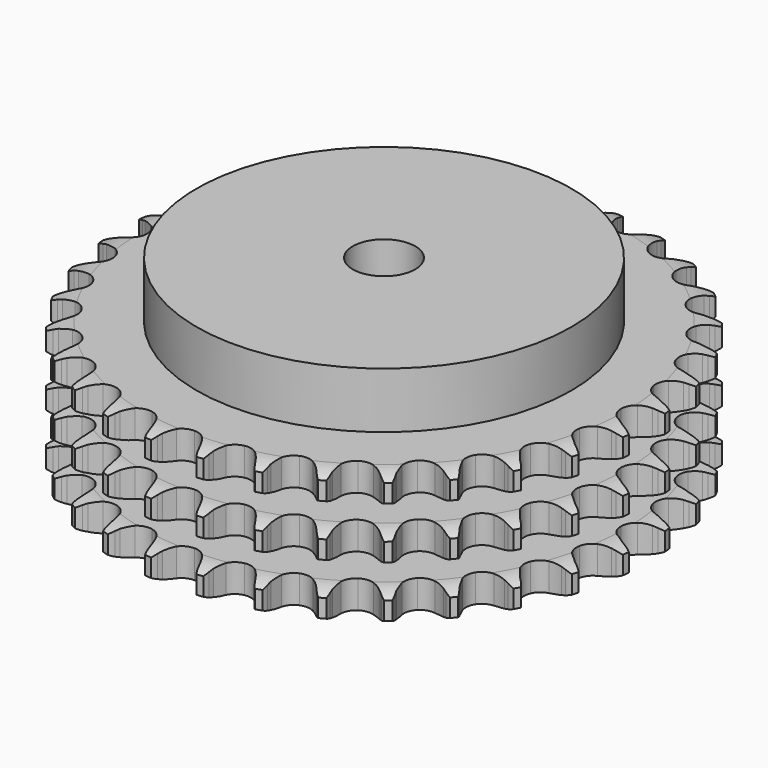
from build123d import *

# Parameters (mm, degrees)
PAD_DEPTH         = 42.1
SKETCH001_R       = 60
PAD001_DEPTH      = 60
SKETCH002_R       = 10
POCKET_DEPTH      = 0.001
POCKET_DEPTH_BACK = 60.001


with BuildPart() as part:
    # Sprocket → Pad (new body)
    with BuildSketch(Plane.XY):
        with BuildLine():
            ThreePointArc((-8.426127, 85.551899), (-7.24963, 84.138481), (-6.414523, 82.500039))
            Line((-6.414523, 82.500039), (-5.91891, 81.183227))
            ThreePointArc((-5.91891, 81.183227), (-5.133513, 79.474671), (-4.114525, 77.894268))
            ThreePointArc((-4.114525, 77.894268), (-2.300038, 76.380146), (0, 75.837234))
            ThreePointArc((0, 75.837234), (2.300038, 76.380146), (4.114525, 77.894268))
            ThreePointArc((4.114525, 77.894268), (5.133513, 79.474671), (5.91891, 81.183227))
            Line((5.91891, 81.183227), (6.414523, 82.500039))
            ThreePointArc((6.414523, 82.500039), (7.24963, 84.138481), (8.426127, 85.551899))
            ThreePointArc((8.426127, 85.551899), (9.304273, 83.936116), (9.80369, 82.166235))
            Line((9.80369, 82.166235), (10.032882, 80.778036))
            ThreePointArc((10.032882, 80.778036), (10.469865, 78.949086), (11.160952, 77.200255))
            ThreePointArc((11.160952, 77.200255), (12.645184, 75.361238), (14.79511, 74.380043))
            ThreePointArc((14.79511, 74.380043), (17.156871, 74.463807), (19.231884, 75.594847))
            Line((19.231884, 75.594847), (21.643242, 78.468592))
            ThreePointArc((21.643242, 78.468592), (21.99889, 79.075855), (22.386229, 79.663412))
            ThreePointArc((22.386229, 79.663412), (23.524933, 81.107451), (24.954568, 82.264187))
            ThreePointArc((24.954568, 82.264187), (25.500618, 80.508133), (25.645152, 78.674829))
            Line((25.645152, 78.674829), (25.599116, 77.26859))
            ThreePointArc((25.599116, 77.26859), (25.670892, 75.389532), (26.00752, 73.53948))
            ThreePointArc((26.00752, 73.53948), (27.104458, 71.44624), (29.021653, 70.064469))
            ThreePointArc((29.021653, 70.064469), (31.354375, 69.685867), (33.610171, 70.390359))
            Line((33.610171, 70.390359), (36.535836, 72.738453))
            ThreePointArc((36.535836, 72.738453), (37.003122, 73.264664), (37.497644, 73.765366))
            ThreePointArc((37.497644, 73.765366), (38.896187, 74.959507), (40.52402, 75.815109))
            ThreePointArc((40.52402, 75.815109), (40.716989, 73.986268), (40.501085, 72.159993))
            Line((40.501085, 72.159993), (40.181591, 70.789756))
            ThreePointArc((40.181591, 70.789756), (39.885401, 68.932801), (39.854634, 67.052624))
            ThreePointArc((39.854634, 67.052624), (40.522123, 64.785603), (42.13291, 63.056356))
            ThreePointArc((42.13291, 63.056356), (44.346947, 62.229937), (46.696839, 62.480809))
            Line((46.696839, 62.480809), (50.024378, 64.213016))
            ThreePointArc((50.024378, 64.213016), (50.585344, 64.637953), (51.168047, 65.032557))
            ThreePointArc((51.168047, 65.032557), (52.772682, 65.930912), (54.536157, 66.452499))
            ThreePointArc((54.536157, 66.452499), (54.368628, 64.621153), (53.800584, 62.872089))
            Line((53.800584, 62.872089), (53.219909, 61.590511))
            ThreePointArc((53.219909, 61.590511), (52.567137, 59.827021), (52.170156, 57.988974))
            ThreePointArc((52.170156, 57.988974), (52.382546, 55.635292), (53.625023, 53.625023))
            ThreePointArc((53.625023, 53.625023), (55.635292, 52.382546), (57.988974, 52.170156))
            Line((57.988974, 52.170156), (61.590511, 53.219909))
            ThreePointArc((61.590511, 53.219909), (62.2236, 53.527242), (62.872089, 53.800584))
            ThreePointArc((62.872089, 53.800584), (64.621153, 54.368628), (66.452499, 54.536157))
            ThreePointArc((66.452499, 54.536157), (65.930912, 52.772682), (65.032557, 51.168047))
            Line((65.032557, 51.168047), (64.213016, 50.024378))
            ThreePointArc((64.213016, 50.024378), (63.228747, 48.422122), (62.480809, 46.696839))
            ThreePointArc((62.480809, 46.696839), (62.229937, 44.346947), (63.056356, 42.13291))
            ThreePointArc((63.056356, 42.13291), (64.785603, 40.522123), (67.052624, 39.854634))
            Line((67.052624, 39.854634), (70.789756, 40.181591))
            ThreePointArc((70.789756, 40.181591), (71.470638, 40.359509), (72.159993, 40.501085))
            ThreePointArc((72.159993, 40.501085), (73.986268, 40.716989), (75.815109, 40.52402))
            ThreePointArc((75.815109, 40.52402), (74.959507, 38.896187), (73.765366, 37.497644))
            Line((73.765366, 37.497644), (72.738453, 36.535836))
            ThreePointArc((72.738453, 36.535836), (71.460511, 35.156388), (70.390359, 33.610171))
            ThreePointArc((70.390359, 33.610171), (69.685867, 31.354375), (70.064469, 29.021653))
            ThreePointArc((70.064469, 29.021653), (71.44624, 27.104458), (73.53948, 26.00752))
            Line((73.53948, 26.00752), (77.26859, 25.599116))
            ThreePointArc((77.26859, 25.599116), (77.971099, 25.640783), (78.674829, 25.645152))
            ThreePointArc((78.674829, 25.645152), (80.508133, 25.500618), (82.264187, 24.954568))
            ThreePointArc((82.264187, 24.954568), (81.107451, 23.524933), (79.663412, 22.386229))
            Line((79.663412, 22.386229), (78.468592, 21.643242))
            ThreePointArc((78.468592, 21.643242), (76.946089, 20.539614), (75.594847, 19.231884))
            ThreePointArc((75.594847, 19.231884), (74.463807, 17.156871), (74.380043, 14.79511))
            ThreePointArc((74.380043, 14.79511), (75.361238, 12.645184), (77.200255, 11.160952))
            Line((77.200255, 11.160952), (80.778036, 10.032882))
            ThreePointArc((80.778036, 10.032882), (81.475175, 9.936695), (82.166235, 9.80369))
            ThreePointArc((82.166235, 9.80369), (83.936116, 9.304273), (85.551899, 8.426127))
            ThreePointArc((85.551899, 8.426127), (84.138481, 7.24963), (82.500039, 6.414523))
            Line((82.500039, 6.414523), (81.183227, 5.91891))
            ThreePointArc((81.183227, 5.91891), (79.474671, 5.133513), (77.894268, 4.114525))
            ThreePointArc((77.894268, 4.114525), (76.380146, 2.300038), (75.837234, 0))
            ThreePointArc((75.837234, 0), (76.380146, -2.300038), (77.894268, -4.114525))
            Line((77.894268, -4.114525), (81.183227, -5.91891))
            ThreePointArc((81.183227, -5.91891), (81.848205, -6.149254), (82.500039, -6.414523))
            ThreePointArc((82.500039, -6.414523), (84.138481, -7.24963), (85.551899, -8.426127))
            ThreePointArc((85.551899, -8.426127), (83.936116, -9.304273), (82.166235, -9.80369))
            Line((82.166235, -9.80369), (80.778036, -10.032882))
            ThreePointArc((80.778036, -10.032882), (78.949086, -10.469865), (77.200255, -11.160952))
            ThreePointArc((77.200255, -11.160952), (75.361238, -12.645184), (74.380043, -14.79511))
            ThreePointArc((74.380043, -14.79511), (74.463807, -17.156871), (75.594847, -19.231884))
            Line((75.594847, -19.231884), (78.468592, -21.643242))
            ThreePointArc((78.468592, -21.643242), (79.075855, -21.99889), (79.663412, -22.386229))
            ThreePointArc((79.663412, -22.386229), (81.107451, -23.524933), (82.264187, -24.954568))
            ThreePointArc((82.264187, -24.954568), (80.508133, -25.500618), (78.674829, -25.645152))
            Line((78.674829, -25.645152), (77.26859, -25.599116))
            ThreePointArc((77.26859, -25.599116), (75.389532, -25.670892), (73.53948, -26.00752))
            ThreePointArc((73.53948, -26.00752), (71.44624, -27.104458), (70.064469, -29.021653))
            ThreePointArc((70.064469, -29.021653), (69.685867, -31.354375), (70.390359, -33.610171))
            Line((70.390359, -33.610171), (72.738453, -36.535836))
            ThreePointArc((72.738453, -36.535836), (73.264664, -37.003122), (73.765366, -37.497644))
            ThreePointArc((73.765366, -37.497644), (74.959507, -38.896187), (75.815109, -40.52402))
            ThreePointArc((75.815109, -40.52402), (73.986268, -40.716989), (72.159993, -40.501085))
            Line((72.159993, -40.501085), (70.789756, -40.181591))
            ThreePointArc((70.789756, -40.181591), (68.932801, -39.885401), (67.052624, -39.854634))
            ThreePointArc((67.052624, -39.854634), (64.785603, -40.522123), (63.056356, -42.13291))
            ThreePointArc((63.056356, -42.13291), (62.229937, -44.346947), (62.480809, -46.696839))
            Line((62.480809, -46.696839), (64.213016, -50.024378))
            ThreePointArc((64.213016, -50.024378), (64.637953, -50.585344), (65.032557, -51.168047))
            ThreePointArc((65.032557, -51.168047), (65.930912, -52.772682), (66.452499, -54.536157))
            ThreePointArc((66.452499, -54.536157), (64.621153, -54.368628), (62.872089, -53.800584))
            Line((62.872089, -53.800584), (61.590511, -53.219909))
            ThreePointArc((61.590511, -53.219909), (59.827021, -52.567137), (57.988974, -52.170156))
            ThreePointArc((57.988974, -52.170156), (55.635292, -52.382546), (53.625023, -53.625023))
            ThreePointArc((53.625023, -53.625023), (52.382546, -55.635292), (52.170156, -57.988974))
            Line((52.170156, -57.988974), (53.219909, -61.590511))
            ThreePointArc((53.219909, -61.590511), (53.527242, -62.2236), (53.800584, -62.872089))
            ThreePointArc((53.800584, -62.872089), (54.368628, -64.621153), (54.536157, -66.452499))
            ThreePointArc((54.536157, -66.452499), (52.772682, -65.930912), (51.168047, -65.032557))
            Line((51.168047, -65.032557), (50.024378, -64.213016))
            ThreePointArc((50.024378, -64.213016), (48.422122, -63.228747), (46.696839, -62.480809))
            ThreePointArc((46.696839, -62.480809), (44.346947, -62.229937), (42.13291, -63.056356))
            ThreePointArc((42.13291, -63.056356), (40.522123, -64.785603), (39.854634, -67.052624))
            Line((39.854634, -67.052624), (40.181591, -70.789756))
            ThreePointArc((40.181591, -70.789756), (40.359509, -71.470638), (40.501085, -72.159993))
            ThreePointArc((40.501085, -72.159993), (40.716989, -73.986268), (40.52402, -75.815109))
            ThreePointArc((40.52402, -75.815109), (38.896187, -74.959507), (37.497644, -73.765366))
            Line((37.497644, -73.765366), (36.535836, -72.738453))
            ThreePointArc((36.535836, -72.738453), (35.156388, -71.460511), (33.610171, -70.390359))
            ThreePointArc((33.610171, -70.390359), (31.354375, -69.685867), (29.021653, -70.064469))
            ThreePointArc((29.021653, -70.064469), (27.104458, -71.44624), (26.00752, -73.53948))
            Line((26.00752, -73.53948), (25.599116, -77.26859))
            ThreePointArc((25.599116, -77.26859), (25.640783, -77.971099), (25.645152, -78.674829))
            ThreePointArc((25.645152, -78.674829), (25.500618, -80.508133), (24.954568, -82.264187))
            ThreePointArc((24.954568, -82.264187), (23.524933, -81.107451), (22.386229, -79.663412))
            Line((22.386229, -79.663412), (21.643242, -78.468592))
            ThreePointArc((21.643242, -78.468592), (20.539614, -76.946089), (19.231884, -75.594847))
            ThreePointArc((19.231884, -75.594847), (17.156871, -74.463807), (14.79511, -74.380043))
            ThreePointArc((14.79511, -74.380043), (12.645184, -75.361238), (11.160952, -77.200255))
            Line((11.160952, -77.200255), (10.032882, -80.778036))
            ThreePointArc((10.032882, -80.778036), (9.936695, -81.475175), (9.80369, -82.166235))
            ThreePointArc((9.80369, -82.166235), (9.304273, -83.936116), (8.426127, -85.551899))
            ThreePointArc((8.426127, -85.551899), (7.24963, -84.138481), (6.414523, -82.500039))
            Line((6.414523, -82.500039), (5.91891, -81.183227))
            ThreePointArc((5.91891, -81.183227), (5.133513, -79.474671), (4.114525, -77.894268))
            ThreePointArc((4.114525, -77.894268), (2.300038, -76.380146), (0, -75.837234))
            ThreePointArc((0, -75.837234), (-2.300038, -76.380146), (-4.114525, -77.894268))
            Line((-4.114525, -77.894268), (-5.91891, -81.183227))
            ThreePointArc((-5.91891, -81.183227), (-6.149254, -81.848205), (-6.414523, -82.500039))
            ThreePointArc((-6.414523, -82.500039), (-7.24963, -84.138481), (-8.426127, -85.551899))
            ThreePointArc((-8.426127, -85.551899), (-9.304273, -83.936116), (-9.80369, -82.166235))
            Line((-9.80369, -82.166235), (-10.032882, -80.778036))
            ThreePointArc((-10.032882, -80.778036), (-10.469865, -78.949086), (-11.160952, -77.200255))
            ThreePointArc((-11.160952, -77.200255), (-12.645184, -75.361238), (-14.79511, -74.380043))
            ThreePointArc((-14.79511, -74.380043), (-17.156871, -74.463807), (-19.231884, -75.594847))
            Line((-19.231884, -75.594847), (-21.643242, -78.468592))
            ThreePointArc((-21.643242, -78.468592), (-21.99889, -79.075855), (-22.386229, -79.663412))
            ThreePointArc((-22.386229, -79.663412), (-23.524933, -81.107451), (-24.954568, -82.264187))
            ThreePointArc((-24.954568, -82.264187), (-25.500618, -80.508133), (-25.645152, -78.674829))
            Line((-25.645152, -78.674829), (-25.599116, -77.26859))
            ThreePointArc((-25.599116, -77.26859), (-25.670892, -75.389532), (-26.00752, -73.53948))
            ThreePointArc((-26.00752, -73.53948), (-27.104458, -71.44624), (-29.021653, -70.064469))
            ThreePointArc((-29.021653, -70.064469), (-31.354375, -69.685867), (-33.610171, -70.390359))
            Line((-33.610171, -70.390359), (-36.535836, -72.738453))
            ThreePointArc((-36.535836, -72.738453), (-37.003122, -73.264664), (-37.497644, -73.765366))
            ThreePointArc((-37.497644, -73.765366), (-38.896187, -74.959507), (-40.52402, -75.815109))
            ThreePointArc((-40.52402, -75.815109), (-40.716989, -73.986268), (-40.501085, -72.159993))
            Line((-40.501085, -72.159993), (-40.181591, -70.789756))
            ThreePointArc((-40.181591, -70.789756), (-39.885401, -68.932801), (-39.854634, -67.052624))
            ThreePointArc((-39.854634, -67.052624), (-40.522123, -64.785603), (-42.13291, -63.056356))
            ThreePointArc((-42.13291, -63.056356), (-44.346947, -62.229937), (-46.696839, -62.480809))
            Line((-46.696839, -62.480809), (-50.024378, -64.213016))
            ThreePointArc((-50.024378, -64.213016), (-50.585344, -64.637953), (-51.168047, -65.032557))
            ThreePointArc((-51.168047, -65.032557), (-52.772682, -65.930912), (-54.536157, -66.452499))
            ThreePointArc((-54.536157, -66.452499), (-54.368628, -64.621153), (-53.800584, -62.872089))
            Line((-53.800584, -62.872089), (-53.219909, -61.590511))
            ThreePointArc((-53.219909, -61.590511), (-52.567137, -59.827021), (-52.170156, -57.988974))
            ThreePointArc((-52.170156, -57.988974), (-52.382546, -55.635292), (-53.625023, -53.625023))
            ThreePointArc((-53.625023, -53.625023), (-55.635292, -52.382546), (-57.988974, -52.170156))
            Line((-57.988974, -52.170156), (-61.590511, -53.219909))
            ThreePointArc((-61.590511, -53.219909), (-62.2236, -53.527242), (-62.872089, -53.800584))
            ThreePointArc((-62.872089, -53.800584), (-64.621153, -54.368628), (-66.452499, -54.536157))
            ThreePointArc((-66.452499, -54.536157), (-65.930912, -52.772682), (-65.032557, -51.168047))
            Line((-65.032557, -51.168047), (-64.213016, -50.024378))
            ThreePointArc((-64.213016, -50.024378), (-63.228747, -48.422122), (-62.480809, -46.696839))
            ThreePointArc((-62.480809, -46.696839), (-62.229937, -44.346947), (-63.056356, -42.13291))
            ThreePointArc((-63.056356, -42.13291), (-64.785603, -40.522123), (-67.052624, -39.854634))
            Line((-67.052624, -39.854634), (-70.789756, -40.181591))
            ThreePointArc((-70.789756, -40.181591), (-71.470638, -40.359509), (-72.159993, -40.501085))
            ThreePointArc((-72.159993, -40.501085), (-73.986268, -40.716989), (-75.815109, -40.52402))
            ThreePointArc((-75.815109, -40.52402), (-74.959507, -38.896187), (-73.765366, -37.497644))
            Line((-73.765366, -37.497644), (-72.738453, -36.535836))
            ThreePointArc((-72.738453, -36.535836), (-71.460511, -35.156388), (-70.390359, -33.610171))
            ThreePointArc((-70.390359, -33.610171), (-69.685867, -31.354375), (-70.064469, -29.021653))
            ThreePointArc((-70.064469, -29.021653), (-71.44624, -27.104458), (-73.53948, -26.00752))
            Line((-73.53948, -26.00752), (-77.26859, -25.599116))
            ThreePointArc((-77.26859, -25.599116), (-77.971099, -25.640783), (-78.674829, -25.645152))
            ThreePointArc((-78.674829, -25.645152), (-80.508133, -25.500618), (-82.264187, -24.954568))
            ThreePointArc((-82.264187, -24.954568), (-81.107451, -23.524933), (-79.663412, -22.386229))
            Line((-79.663412, -22.386229), (-78.468592, -21.643242))
            ThreePointArc((-78.468592, -21.643242), (-76.946089, -20.539614), (-75.594847, -19.231884))
            ThreePointArc((-75.594847, -19.231884), (-74.463807, -17.156871), (-74.380043, -14.79511))
            ThreePointArc((-74.380043, -14.79511), (-75.361238, -12.645184), (-77.200255, -11.160952))
            Line((-77.200255, -11.160952), (-80.778036, -10.032882))
            ThreePointArc((-80.778036, -10.032882), (-81.475175, -9.936695), (-82.166235, -9.80369))
            ThreePointArc((-82.166235, -9.80369), (-83.936116, -9.304273), (-85.551899, -8.426127))
            ThreePointArc((-85.551899, -8.426127), (-84.138481, -7.24963), (-82.500039, -6.414523))
            Line((-82.500039, -6.414523), (-81.183227, -5.91891))
            ThreePointArc((-81.183227, -5.91891), (-79.474671, -5.133513), (-77.894268, -4.114525))
            ThreePointArc((-77.894268, -4.114525), (-76.380146, -2.300038), (-75.837234, 0))
            ThreePointArc((-75.837234, 0), (-76.380146, 2.300038), (-77.894268, 4.114525))
            Line((-77.894268, 4.114525), (-81.183227, 5.91891))
            ThreePointArc((-81.183227, 5.91891), (-81.848205, 6.149254), (-82.500039, 6.414523))
            ThreePointArc((-82.500039, 6.414523), (-84.138481, 7.24963), (-85.551899, 8.426127))
            ThreePointArc((-85.551899, 8.426127), (-83.936116, 9.304273), (-82.166235, 9.80369))
            Line((-82.166235, 9.80369), (-80.778036, 10.032882))
            ThreePointArc((-80.778036, 10.032882), (-78.949086, 10.469865), (-77.200255, 11.160952))
            ThreePointArc((-77.200255, 11.160952), (-75.361238, 12.645184), (-74.380043, 14.79511))
            ThreePointArc((-74.380043, 14.79511), (-74.463807, 17.156871), (-75.594847, 19.231884))
            Line((-75.594847, 19.231884), (-78.468592, 21.643242))
            ThreePointArc((-78.468592, 21.643242), (-79.075855, 21.99889), (-79.663412, 22.386229))
            ThreePointArc((-79.663412, 22.386229), (-81.107451, 23.524933), (-82.264187, 24.954568))
            ThreePointArc((-82.264187, 24.954568), (-80.508133, 25.500618), (-78.674829, 25.645152))
            Line((-78.674829, 25.645152), (-77.26859, 25.599116))
            ThreePointArc((-77.26859, 25.599116), (-75.389532, 25.670892), (-73.53948, 26.00752))
            ThreePointArc((-73.53948, 26.00752), (-71.44624, 27.104458), (-70.064469, 29.021653))
            ThreePointArc((-70.064469, 29.021653), (-69.685867, 31.354375), (-70.390359, 33.610171))
            Line((-70.390359, 33.610171), (-72.738453, 36.535836))
            ThreePointArc((-72.738453, 36.535836), (-73.264664, 37.003122), (-73.765366, 37.497644))
            ThreePointArc((-73.765366, 37.497644), (-74.959507, 38.896187), (-75.815109, 40.52402))
            ThreePointArc((-75.815109, 40.52402), (-73.986268, 40.716989), (-72.159993, 40.501085))
            Line((-72.159993, 40.501085), (-70.789756, 40.181591))
            ThreePointArc((-70.789756, 40.181591), (-68.932801, 39.885401), (-67.052624, 39.854634))
            ThreePointArc((-67.052624, 39.854634), (-64.785603, 40.522123), (-63.056356, 42.13291))
            ThreePointArc((-63.056356, 42.13291), (-62.229937, 44.346947), (-62.480809, 46.696839))
            Line((-62.480809, 46.696839), (-64.213016, 50.024378))
            ThreePointArc((-64.213016, 50.024378), (-64.637953, 50.585344), (-65.032557, 51.168047))
            ThreePointArc((-65.032557, 51.168047), (-65.930912, 52.772682), (-66.452499, 54.536157))
            ThreePointArc((-66.452499, 54.536157), (-64.621153, 54.368628), (-62.872089, 53.800584))
            Line((-62.872089, 53.800584), (-61.590511, 53.219909))
            ThreePointArc((-61.590511, 53.219909), (-59.827021, 52.567137), (-57.988974, 52.170156))
            ThreePointArc((-57.988974, 52.170156), (-55.635292, 52.382546), (-53.625023, 53.625023))
            ThreePointArc((-53.625023, 53.625023), (-52.382546, 55.635292), (-52.170156, 57.988974))
            Line((-52.170156, 57.988974), (-53.219909, 61.590511))
            ThreePointArc((-53.219909, 61.590511), (-53.527242, 62.2236), (-53.800584, 62.872089))
            ThreePointArc((-53.800584, 62.872089), (-54.368628, 64.621153), (-54.536157, 66.452499))
            ThreePointArc((-54.536157, 66.452499), (-52.772682, 65.930912), (-51.168047, 65.032557))
            Line((-51.168047, 65.032557), (-50.024378, 64.213016))
            ThreePointArc((-50.024378, 64.213016), (-48.422122, 63.228747), (-46.696839, 62.480809))
            ThreePointArc((-46.696839, 62.480809), (-44.346947, 62.229937), (-42.13291, 63.056356))
            ThreePointArc((-42.13291, 63.056356), (-40.522123, 64.785603), (-39.854634, 67.052624))
            Line((-39.854634, 67.052624), (-40.181591, 70.789756))
            ThreePointArc((-40.181591, 70.789756), (-40.359509, 71.470638), (-40.501085, 72.159993))
            ThreePointArc((-40.501085, 72.159993), (-40.716989, 73.986268), (-40.52402, 75.815109))
            ThreePointArc((-40.52402, 75.815109), (-38.896187, 74.959507), (-37.497644, 73.765366))
            Line((-37.497644, 73.765366), (-36.535836, 72.738453))
            ThreePointArc((-36.535836, 72.738453), (-35.156388, 71.460511), (-33.610171, 70.390359))
            ThreePointArc((-33.610171, 70.390359), (-31.354375, 69.685867), (-29.021653, 70.064469))
            ThreePointArc((-29.021653, 70.064469), (-27.104458, 71.44624), (-26.00752, 73.53948))
            Line((-26.00752, 73.53948), (-25.599116, 77.26859))
            ThreePointArc((-25.599116, 77.26859), (-25.640783, 77.971099), (-25.645152, 78.674829))
            ThreePointArc((-25.645152, 78.674829), (-25.500618, 80.508133), (-24.954568, 82.264187))
            ThreePointArc((-24.954568, 82.264187), (-23.524933, 81.107451), (-22.386229, 79.663412))
            Line((-22.386229, 79.663412), (-21.643242, 78.468592))
            ThreePointArc((-21.643242, 78.468592), (-20.539614, 76.946089), (-19.231884, 75.594847))
            ThreePointArc((-19.231884, 75.594847), (-17.156871, 74.463807), (-14.79511, 74.380043))
            ThreePointArc((-14.79511, 74.380043), (-12.645184, 75.361238), (-11.160952, 77.200255))
            Line((-11.160952, 77.200255), (-10.032882, 80.778036))
            ThreePointArc((-10.032882, 80.778036), (-9.936695, 81.475175), (-9.80369, 82.166235))
            ThreePointArc((-9.80369, 82.166235), (-9.304273, 83.936116), (-8.426127, 85.551899))
        make_face()
    extrude(amount=PAD_DEPTH)

    # Sketch → Groove (revolve, cut)
    with BuildSketch(Plane.XZ):
        with BuildLine():
            ThreePointArc((77.475762, 0), (81.05347, 0.405129), (84.45, 1.6))
            Line((84.45, 1.6), (84.45, 7.4))
            ThreePointArc((84.45, 7.4), (81.05347, 8.594871), (77.475762, 9))
            Line((60, 9), (77.475762, 9))
            Line((60, 9), (60, 16.55))
            Line((60, 16.55), (77.475762, 16.55))
            ThreePointArc((77.475762, 16.55), (81.05347, 16.955129), (84.45, 18.15))
            Line((84.45, 23.95), (84.45, 18.15))
            ThreePointArc((84.45, 23.95), (81.05347, 25.144871), (77.475762, 25.55))
            Line((60, 25.55), (77.475762, 25.55))
            Line((60, 33.1), (60, 25.55))
            Line((77.475762, 33.1), (60, 33.1))
            ThreePointArc((77.475762, 33.1), (81.05347, 33.505129), (84.45, 34.7))
            Line((84.45, 34.7), (84.45, 40.5))
            ThreePointArc((84.45, 40.5), (81.05347, 41.694871), (77.475762, 42.1))
            Line((77.475762, 42.1), (94.45, 42.1))
            Line((94.45, 42.1), (94.45, 0))
            Line((77.475762, 0), (94.45, 0))
        make_face()
    revolve(axis=Axis((0, 0, 0), (0, 0, 1)), mode=Mode.SUBTRACT)

    # Sketch001 → Pad001 (join)
    with BuildSketch(Plane.XY):
        Circle(SKETCH001_R)
    extrude(amount=PAD001_DEPTH)

    # Sketch002 → Pocket (cut, two sides)
    with BuildSketch(Plane.XY) as pocket_sk:
        Circle(SKETCH002_R)
    extrude(amount=-POCKET_DEPTH, mode=Mode.SUBTRACT)
    extrude(pocket_sk.sketch, amount=POCKET_DEPTH_BACK, mode=Mode.SUBTRACT)


solid = part.part
